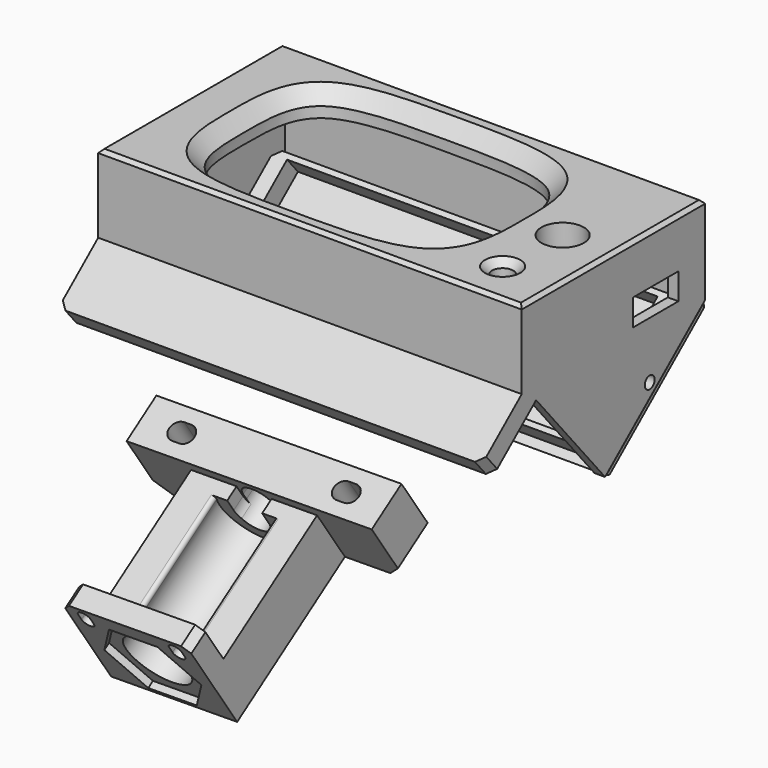
from build123d import *

# Parameters (mm, degrees)
SKETCH_W                = 120
SKETCH_H                = 65
PAD_DEPTH               = 25
SKETCH004_R             = 3
POCKET001_DEPTH         = 25.001
SKETCH001_R             = 6
POCKET_DEPTH            = 25.001
SKETCH005_W             = 114
SKETCH005_H             = 60
POCKET002_DEPTH         = 18
CHAMFER_SIZE            = 4
SKETCH006_R             = 3.5
PAD001_DEPTH            = 4.5
SKETCH007_R             = 1.4
POCKET003_DEPTH         = 8
SKETCH008_W             = 16
SKETCH008_H             = 6.5
POCKET004_DEPTH         = 9
SKETCH009_W             = 28
SKETCH009_H             = 4
POCKET005_DEPTH         = 5
PAD002_DEPTH            = 120
SKETCH015_W             = 114
SKETCH015_H             = 60
POCKET006_DEPTH         = 47
SKETCH016_W             = 16
SKETCH016_H             = 7.5
POCKET007_DEPTH         = 9
CHAMFER001_SIZE         = 2
SKETCH022_R             = 1.75
POCKET010_DEPTH         = 120.001
CHAMFER005_SIZE         = 2
CHAMFER006_SIZE         = 2
SKETCH023_R             = 6.5
POCKET011_DEPTH         = 2.3
CHAMFER007_SIZE         = 1
SKETCH018_W             = 120
SKETCH018_H             = 45
PAD003_DEPTH            = 3
SKETCH019_W             = 113.5
SKETCH019_H             = 40
PAD004_DEPTH            = 6
SKETCH020_R             = 1.4
POCKET008_DEPTH         = 116.751
POCKET012_DEPTH         = 376.952357
CHAMFER008_SIZE         = 2
SKETCH021_W             = 105
SKETCH021_H             = 37
POCKET013_DEPTH         = 6
CHAMFER009_SIZE         = 2
CHAMFER010_SIZE         = 1
CHAMFER011_SIZE         = 1
CHAMFER012_SIZE         = 2
BODY001_PLACEMENT_ANGLE = 310
SKETCH029_W             = 70
SKETCH029_H             = 20
PAD005_DEPTH            = 12.7
SKETCH012_W             = 36
SKETCH012_H             = 17
PAD006_DEPTH            = 40
POCKET016_DEPTH         = 40
POCKET014_DEPTH         = 22.994766
SKETCH027_W             = 36
SKETCH027_H             = 30
PAD007_DEPTH            = 6
POCKET017_DEPTH         = 2
POCKET015_DEPTH         = 22
POCKET015_DEPTH_BACK    = 100
SKETCH013_R             = 9
POCKET018_DEPTH         = 40
FILLET_R                = 1
CHAMFER014_SIZE         = 2
CHAMFER013_SIZE         = 4
BODY002_ROLL_ANGLE      = -123.951696
BODY002_PITCH_ANGLE     = 0.828143
BODY002_PLACEMENT_ANGLE = 179.441913


with BuildPart() as screenbox:
    # Sketch → Pad (new body)
    with BuildSketch(Plane.XY):
        with Locations((7, 0)):
            Rectangle(SKETCH_W, SKETCH_H)
        with BuildLine():
            add(Edge.make_bspline(
                [(0, 25.038668), (-12.580271, 25.038668), (-37.740814, 25.116003), (-37.5, 0), (-37.740814, -25.116003), (0, -25), (37.740814, -25.116003), (37.5, 0), (37.740814, 25.116003), (12.580271, 25.038668), (0, 25.038668)],
                knots=[0, 0, 0, 0, 0.125, 0.25, 0.375, 0.5, 0.625, 0.75, 0.875, 1, 1, 1, 1], degree=3))
        make_face(mode=Mode.SUBTRACT)
    extrude(amount=PAD_DEPTH)

    # Sketch004 → Pocket001 (cut, through all)
    with BuildSketch(Plane(origin=(0, 0, 0), x_dir=(1, 0, 0), z_dir=(0, 0, -1))):
        with Locations((52, 20.5)):
            Circle(SKETCH004_R)
    extrude(amount=-POCKET001_DEPTH, mode=Mode.SUBTRACT)

    # Sketch001 (on Face5 of Pocket001) → Pocket (cut, through all)
    with BuildSketch(Plane.XY.offset(25)):
        with Locations((53, -0.5)):
            Circle(SKETCH001_R)
    extrude(amount=-POCKET_DEPTH, mode=Mode.SUBTRACT)

    # Sketch005 (on Face4 of Pocket) → Pocket002 (cut)
    with BuildSketch(Plane(origin=(0, 0, 0), x_dir=(1, 0, 0), z_dir=(0, 0, -1))):
        with Locations((7, 0)):
            Rectangle(SKETCH005_W, SKETCH005_H)
    extrude(amount=-POCKET002_DEPTH, mode=Mode.SUBTRACT)

    # Chamfer
    chamfer_edges = [screenbox.edges().sort_by_distance(p)[0] for p in [
        (0, -25.038668, 25),
    ]]
    chamfer(chamfer_edges, length=CHAMFER_SIZE)

    # Sketch006 (on Face11 of Chamfer) → Pad001 (join)
    with BuildSketch(Plane(origin=(0, 0, 18), x_dir=(1, 0, 0), z_dir=(0, 0, -1))):
        with Locations((-45.5, 25)):
            Circle(SKETCH006_R)
        with Locations((-45.5, -25)):
            Circle(SKETCH006_R)
        with Locations((58.5, -25)):
            Circle(SKETCH006_R)
        with Locations((58.5, 25)):
            Circle(SKETCH006_R)
    extrude(amount=PAD001_DEPTH)

    # Sketch007 (on Face22 of Pad001) → Pocket003 (cut)
    with BuildSketch(Plane(origin=(0, 0, 13.5), x_dir=(1, 0, 0), z_dir=(0, 0, -1))):
        with Locations((-45.5, 25)):
            Circle(SKETCH007_R)
        with Locations((58.5, 25)):
            Circle(SKETCH007_R)
        with Locations((58.5, -25)):
            Circle(SKETCH007_R)
        with Locations((-45.5, -25)):
            Circle(SKETCH007_R)
    extrude(amount=-POCKET003_DEPTH, mode=Mode.SUBTRACT)

    # Sketch008 (on Face5 of Pocket003) → Pocket004 (cut)
    with BuildSketch(Plane.YZ.offset(67)):
        with Locations((15, 3.25)):
            Rectangle(SKETCH008_W, SKETCH008_H)
    extrude(amount=-POCKET004_DEPTH, mode=Mode.SUBTRACT)

    # Sketch009 (on Face4 of Pocket004) → Pocket005 (cut)
    with BuildSketch(Plane(origin=(-53, 0, 0), x_dir=(0, -1, 0), z_dir=(-1, 0, 0))):
        with Locations((0, 10.5)):
            Rectangle(SKETCH009_W, SKETCH009_H)
    extrude(amount=-POCKET005_DEPTH, mode=Mode.SUBTRACT)

    # Sketch010 (on Face4 of Pocket005) → Pad002 (join)
    with BuildSketch(Plane(origin=(-53, 0, 0), x_dir=(0, -1, 0), z_dir=(-1, 0, 0))):
        Polygon((2.976444, -29.768271), (27.402373, -0.658582), (42.723262, -13.514335), (46.579988, -8.918068), (27.480858, 7.108005), (-32.5, 7.108005), (-32.5, 0), align=None)
    extrude(amount=-PAD002_DEPTH)

    # Sketch015 → Pocket006 (cut)
    with BuildSketch(Plane(origin=(0, 0, 13.5), x_dir=(1, 0, 0), z_dir=(0, 0, -1))):
        with Locations((7, 0)):
            Rectangle(SKETCH015_W, SKETCH015_H)
    extrude(amount=POCKET006_DEPTH, mode=Mode.SUBTRACT)

    # Sketch016 (on Face5 of Pocket006) → Pocket007 (cut)
    with BuildSketch(Plane.YZ.offset(67)):
        with Locations((15, 7.25)):
            Rectangle(SKETCH016_W, SKETCH016_H)
    extrude(amount=-POCKET007_DEPTH, mode=Mode.SUBTRACT)

    # Chamfer001
    chamfer001_edges = [screenbox.edges().sort_by_distance(p)[0] for p in [
        (49, -20.5, 25),
    ]]
    chamfer(chamfer001_edges, length=CHAMFER001_SIZE)

    # Sketch022 (on Face25 of Chamfer001) → Pocket010 (cut, through all)
    with BuildSketch(Plane(origin=(-53, 0, 0), x_dir=(0, -1, 0), z_dir=(-1, 0, 0))):
        with Locations((-12.833415, -12.586002)):
            Circle(SKETCH022_R)
    extrude(amount=-POCKET010_DEPTH, mode=Mode.SUBTRACT)

    # Chamfer005
    chamfer005_edges = [screenbox.edges().sort_by_distance(p)[0] for p in [
        (67, -44.651625, -11.216201),
    ]]
    chamfer(chamfer005_edges, length=CHAMFER005_SIZE)

    # Chamfer006
    chamfer006_edges = [screenbox.edges().sort_by_distance(p)[0] for p in [
        (-53, -44.651625, -11.216201),
    ]]
    chamfer(chamfer006_edges, length=CHAMFER006_SIZE)

    # Sketch023 (on Face8 of Chamfer006) → Pocket011 (cut)
    with BuildSketch(Plane(origin=(0, -10.997712, 13.106563), x_dir=(1, 0, 0), z_dir=(0, 0.642788, -0.766044))):
        with Locations((-37, 32)):
            Circle(SKETCH023_R)
        with Locations((37, 32)):
            Circle(SKETCH023_R)
    extrude(amount=-POCKET011_DEPTH, mode=Mode.SUBTRACT)

    # Chamfer007
    chamfer007_edges = [screenbox.edges().sort_by_distance(p)[0] for p in [
        (7, 32.5, 25),
        (67, 0, 25),
        (7, -32.5, 25),
        (-53, 0, 25),
    ]]
    chamfer(chamfer007_edges, length=CHAMFER007_SIZE)


with BuildPart() as boxcap:
    # Sketch018 → Pad003 (new body)
    with BuildSketch(Plane.XZ):
        Rectangle(SKETCH018_W, SKETCH018_H)
    extrude(amount=PAD003_DEPTH)

    # Sketch019 (on Face6 of Pad003) → Pad004 (join)
    with BuildSketch(Plane.XZ.offset(3)):
        Rectangle(SKETCH019_W, SKETCH019_H)
    extrude(amount=PAD004_DEPTH)

    # Sketch020 (on Face8 of Pad004) → Pocket008 (cut, through all)
    with BuildSketch(Plane(origin=(56.75, 0, 0), x_dir=(0, 0, 1), z_dir=(1, 0, 0))):
        with Locations((0, 6)):
            Circle(SKETCH020_R)
    extrude(amount=-POCKET008_DEPTH, mode=Mode.SUBTRACT)

    # Sketch024 (on Face3 of Pocket008) → Pocket012 (cut, through all)
    with BuildSketch(Plane(origin=(60, 0, 0), x_dir=(0, 0, 1), z_dir=(1, 0, 0))):
        Polygon((-22.5, 3), (-17.875456, -3.604533), (-35.516254, -3.604533), align=None)
    pocket012 = extrude(amount=-POCKET012_DEPTH, mode=Mode.SUBTRACT)

    # Mirrored: Pocket012 across Sketch024 V_Axis
    add(pocket012.mirror(Plane(origin=(60, 0, 0), x_dir=(1, 0, 0), z_dir=(0, 0, 1))), mode=Mode.SUBTRACT)

    # Chamfer008
    chamfer008_edges = [boxcap.edges().sort_by_distance(p)[0] for p in [
        (60, 0, 0),
        (-60, 0, 0),
    ]]
    chamfer(chamfer008_edges, length=CHAMFER008_SIZE)

    # Sketch021 → Pocket013 (cut)
    with BuildSketch(Plane.XZ.offset(9)):
        Rectangle(SKETCH021_W, SKETCH021_H)
    extrude(amount=-POCKET013_DEPTH, mode=Mode.SUBTRACT)

    # Chamfer009
    chamfer009_edges = [boxcap.edges().sort_by_distance(p)[0] for p in [
        (-56.75, -6, -20),
    ]]
    chamfer(chamfer009_edges, length=CHAMFER009_SIZE)

    # Chamfer010
    chamfer010_edges = [boxcap.edges().sort_by_distance(p)[0] for p in [
        (56.75, -6, -20),
    ]]
    chamfer(chamfer010_edges, length=CHAMFER010_SIZE)

    # Chamfer011
    chamfer011_edges = [boxcap.edges().sort_by_distance(p)[0] for p in [
        (56.75, -6, 20),
    ]]
    chamfer(chamfer011_edges, length=CHAMFER011_SIZE)

    # Chamfer012
    chamfer012_edges = [boxcap.edges().sort_by_distance(p)[0] for p in [
        (-56.75, -6, 20),
    ]]
    chamfer(chamfer012_edges, length=CHAMFER012_SIZE)


with BuildPart() as boxcap_1:
    # Body001 placement: moved
    add(boxcap.part.moved(Location((7, 16.629636, -17.350208))).rotate(Axis((7, 16.629636, -17.350208), (1, 0, 0)), BODY001_PLACEMENT_ANGLE))


with BuildPart() as obj1:
    # Sketch029 → Pad005 (new body)
    with BuildSketch(Plane.XY):
        with Locations((-8, 8)):
            Rectangle(SKETCH029_W, SKETCH029_H)
    extrude(amount=PAD005_DEPTH)

    # Sketch012 (on Face6 of Pad005) → Pad006 (join)
    with BuildSketch(Plane.XY.offset(12.7)):
        with Locations((-8, 9.5)):
            Rectangle(SKETCH012_W, SKETCH012_H)
    extrude(amount=PAD006_DEPTH)

    # Sketch028 → Pocket016 (cut)
    with BuildSketch(Plane.XY.offset(52.7)):
        with BuildLine():
            ThreePointArc((-3, 5), (-8, 10), (-13, 5))
            Line((-13, -7.39), (-13, 5))
            Line((-3, -7.39), (-13, -7.39))
            Line((-3, 5), (-3, -7.39))
        make_face()
    extrude(amount=-POCKET016_DEPTH, mode=Mode.SUBTRACT)

    # Sketch025 → Pocket014 (cut, through all)
    with BuildSketch(Plane(origin=(0, 20.993766, 0), x_dir=(-1, 0, 0), z_dir=(0, 1, 0))):
        with BuildLine():
            ThreePointArc((-16.5, 8.95), (-19.1, 6.35), (-16.5, 3.75))
            Line((-16.5, 3.75), (-14.5, 3.75))
            ThreePointArc((-14.5, 3.75), (-11.9, 6.35), (-14.5, 8.95))
            Line((-16.5, 8.95), (-14.5, 8.95))
        make_face()
        with BuildLine():
            ThreePointArc((30.5, 8.95), (27.9, 6.35), (30.5, 3.75))
            Line((30.5, 3.75), (32.5, 3.75))
            ThreePointArc((32.5, 3.75), (35.1, 6.35), (32.5, 8.95))
            Line((30.5, 8.95), (32.5, 8.95))
        make_face()
    extrude(amount=-POCKET014_DEPTH, mode=Mode.SUBTRACT)

    # Sketch027 → Pad007 (join)
    with BuildSketch(Plane.XY.offset(52.7)):
        with Locations((-8, 3)):
            Rectangle(SKETCH027_W, SKETCH027_H)
        with BuildLine():
            ThreePointArc((-19.25, -7), (-21, -5.25), (-22.75, -7))
            Line((-22.75, -7), (-22.75, -9))
            ThreePointArc((-22.75, -9), (-21, -10.75), (-19.25, -9))
            Line((-19.25, -7), (-19.25, -9))
        make_face(mode=Mode.SUBTRACT)
        with BuildLine():
            ThreePointArc((6.75, -7), (5, -5.25), (3.25, -7))
            Line((3.25, -7), (3.25, -9))
            ThreePointArc((3.25, -9), (5, -10.75), (6.75, -9))
            Line((6.75, -7), (6.75, -9))
        make_face(mode=Mode.SUBTRACT)
    extrude(amount=PAD007_DEPTH)

    # Sketch026 → Pocket017 (cut)
    with BuildSketch(Plane.XY.offset(56.7)):
        Polygon((5.856406, 5), (-1.071797, 17), (-14.928203, 17), (-21.856406, 5), (-14.928203, -7), (-1.071797, -7), align=None)
    extrude(amount=POCKET017_DEPTH, mode=Mode.SUBTRACT)

    # Sketch030 → Pocket015 (cut, two sides)
    with BuildSketch(Plane.XY.offset(12.7)) as pocket015_sk:
        with BuildLine():
            ThreePointArc((-3.5, 6), (-8, 10.5), (-12.5, 6))
            Line((-12.5, 6), (-12.5, 4))
            ThreePointArc((-12.5, 4), (-8, -0.5), (-3.5, 4))
            Line((-3.5, 6), (-3.5, 4))
        make_face()
    extrude(amount=-POCKET015_DEPTH, mode=Mode.SUBTRACT)
    extrude(pocket015_sk.sketch, amount=POCKET015_DEPTH_BACK, mode=Mode.SUBTRACT)

    # Sketch013 (on Face29 of Pocket015) → Pocket018 (cut)
    with BuildSketch(Plane.XY.offset(56.7)):
        with Locations((-8, 5)):
            Circle(SKETCH013_R)
    extrude(amount=-POCKET018_DEPTH, mode=Mode.SUBTRACT)

    # Fillet
    fillet_edges = [obj1.edges().sort_by_distance(p)[0] for p in [
        (0.062258, 1, 34.7),
        (-16.062258, 1, 34.7),
    ]]
    fillet(fillet_edges, radius=FILLET_R)

    # Chamfer014
    chamfer014_edges = [obj1.edges().sort_by_distance(p)[0] for p in [
        (10, -12, 55.7),
        (-26, -12, 55.7),
    ]]
    chamfer(chamfer014_edges, length=CHAMFER014_SIZE)

    # Chamfer013
    chamfer013_edges = [obj1.edges().sort_by_distance(p)[0] for p in [
        (-43, 18, 6.35),
        (27, 18, 6.35),
    ]]
    chamfer(chamfer013_edges, length=CHAMFER013_SIZE)


with BuildPart() as obj1_1:
    # Body002 roll: moved
    add(obj1.part.rotate(Axis((0, 0, 0), (1, 0, 0)), BODY002_ROLL_ANGLE))


with BuildPart() as obj1_2:
    # Body002 pitch: moved
    add(obj1_1.part.rotate(Axis((0, 0, 0), (0, 1, 0)), BODY002_PITCH_ANGLE))


with BuildPart() as obj1_3:
    # Body002 placement: moved
    add(obj1_2.part.moved(Location((-0.401038, -43.00558, -24.805855))).rotate(Axis((-0.401038, -43.00558, -24.805855), (0, 0, 1)), BODY002_PLACEMENT_ANGLE))


solid = Compound([screenbox.part, boxcap_1.part, obj1_3.part])
